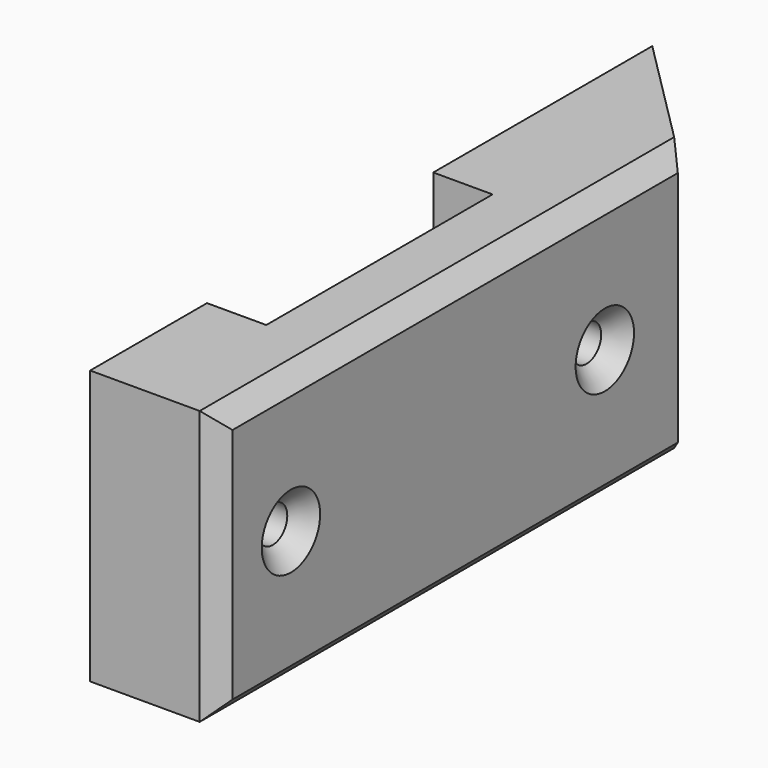
from build123d import *

# Parameters (mm, degrees)
PAD_DEPTH       = 7.5
SKETCH001_R     = 1
POCKET_DEPTH    = 7.001
CHAMFER_SIZE    = 1
CHAMFER001_SIZE = 1


with BuildPart() as part:
    # Sketch → Pad (new body, symmetric)
    with BuildSketch(Plane.XY):
        Polygon((0, 0), (0, -15), (3.25, -15), (3.25, -30.5), (0, -30.5), (0, -38.5), (7, -38.5), (7, -7), align=None)
    extrude(amount=PAD_DEPTH, both=True)

    # Sketch001 (on Face7 of Pad) → Pocket (cut, through all)
    with BuildSketch(Plane.YZ.offset(7)):
        with Locations((-33.5, 0)):
            Circle(SKETCH001_R)
        with Locations((-12, 0)):
            Circle(SKETCH001_R)
    extrude(amount=-POCKET_DEPTH, mode=Mode.SUBTRACT)

    # Chamfer
    chamfer_edges = [part.edges().sort_by_distance(p)[0] for p in [
        (7, -13, 0),
        (7, -34.5, 0),
    ]]
    chamfer(chamfer_edges, length=CHAMFER_SIZE)

    # Chamfer001
    chamfer001_edges = [part.edges().sort_by_distance(p)[0] for p in [
        (7, -22.75, 7.5),
        (7, -38.5, 0),
        (7, -22.75, -7.5),
    ]]
    chamfer(chamfer001_edges, length=CHAMFER001_SIZE)


solid = part.part
